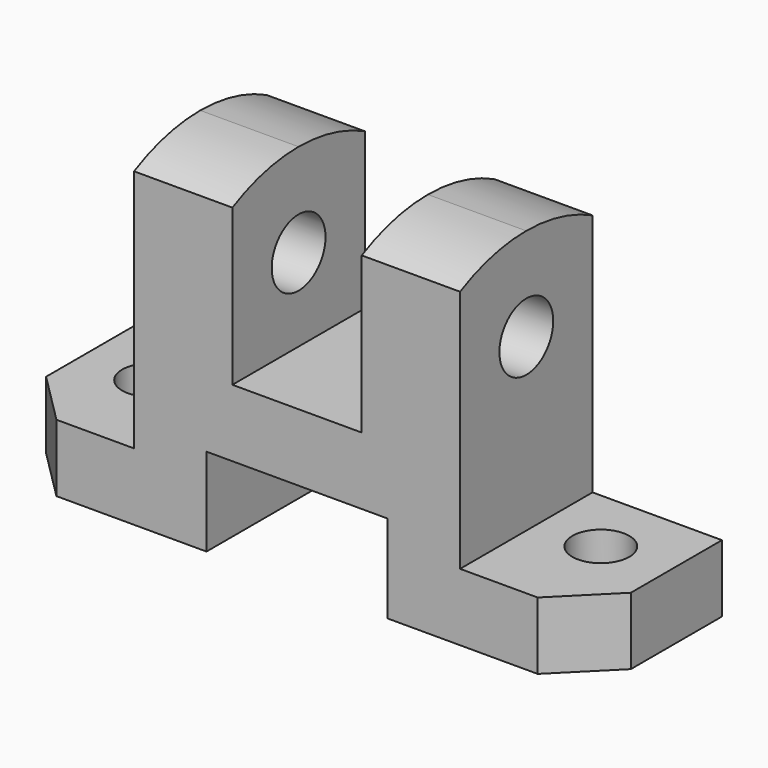
from build123d import *

# Parameters (mm, degrees)
F1_DEPTH = 32
F2_R     = 6.5
F3_DEPTH = 88.001
F4_R     = 5.5
F5_DEPTH = 13.001
F6_R     = 5.5
F7_DEPTH = 13.001


with BuildPart() as f1:
    # F0 (on Front) → F1 (new body)
    with BuildSketch(Plane.XZ):
        Polygon((0, 13), (0, 0), (39, 0), (39, 17), (74, 17), (74, 0), (113, 0), (113, 13), (88, 13), (88, 64), (69, 64), (69, 30), (44, 30), (44, 64), (25, 64), (25, 13), align=None)
    extrude(amount=F1_DEPTH)

    # F2 (on face) → F3 (cut, through all)
    with BuildSketch(Plane.YZ.offset(88)):
        with Locations((-16, 46)):
            Circle(F2_R)
        with BuildLine():
            Line((0, 64), (-16.021628, 64))
            ThreePointArc((-16.021628, 64), (-7.778975, 63.015565), (0, 60.117639))
            Line((0, 60.117639), (0, 64))
        make_face()
        with BuildLine():
            Line((-32, 64), (-32, 60.139872))
            ThreePointArc((-32, 60.139872), (-24.240645, 63.021284), (-16.021628, 64))
            Line((-16.021628, 64), (-32, 64))
        make_face()
    extrude(amount=-F3_DEPTH, mode=Mode.SUBTRACT)

    # F4 (on face) → F5 (cut, through all)
    with BuildSketch(Plane.XY.offset(13)):
        with Locations((100, -13)):
            Circle(F4_R)
        Polygon((113, -22), (103, -32), (113, -32), align=None)
    extrude(amount=-F5_DEPTH, mode=Mode.SUBTRACT)

    # F6 (on face) → F7 (cut, through all)
    with BuildSketch(Plane.XY.offset(13)):
        with Locations((13, -13)):
            Circle(F6_R)
        Polygon((0, -32), (10, -32), (0, -22), align=None)
    extrude(amount=-F7_DEPTH, mode=Mode.SUBTRACT)


solid = f1.part
